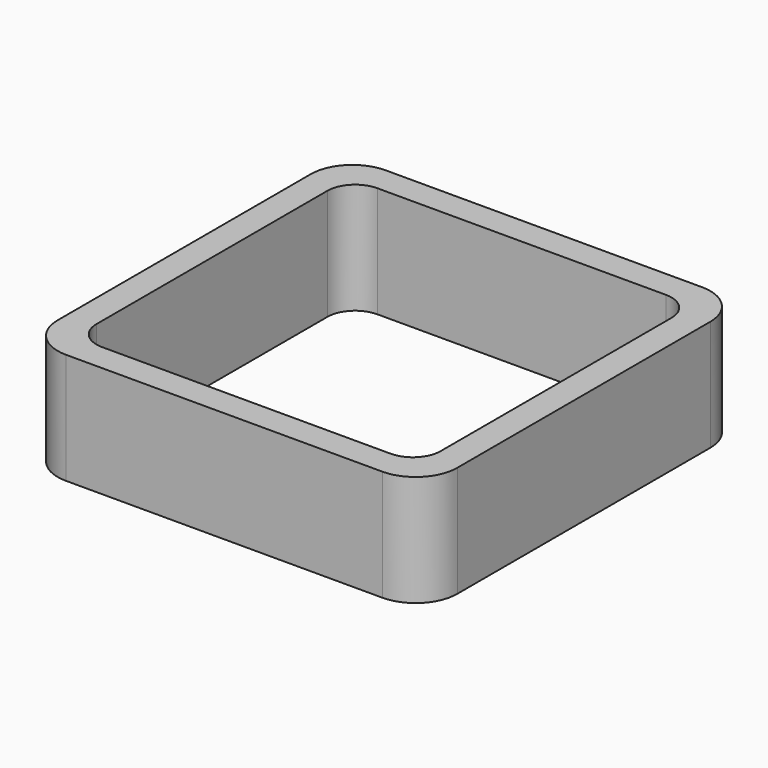
from build123d import *

# Parameters (mm, degrees)
EXTRUDE_DEPTH = 50


with BuildPart() as part:
    # Sketch → Extrude (new body)
    with BuildSketch(Plane.XY):
        with BuildLine():
            Line((-71.25, 90), (71.25, 90))
            ThreePointArc((90, 71.25), (84.508252, 84.508252), (71.25, 90))
            Line((90, 71.25), (90, -71.25))
            ThreePointArc((71.25, -90), (84.508252, -84.508252), (90, -71.25))
            Line((71.25, -90), (-71.25, -90))
            ThreePointArc((-90, -71.25), (-84.508252, -84.508252), (-71.25, -90))
            Line((-90, -71.25), (-90, 71.25))
            ThreePointArc((-71.25, 90), (-84.508252, 84.508252), (-90, 71.25))
        make_face()
        with BuildLine():
            Line((-65, 77.5), (65, 77.5))
            ThreePointArc((77.5, 65), (73.838835, 73.838835), (65, 77.5))
            Line((77.5, 65), (77.5, -65))
            ThreePointArc((65, -77.5), (73.838835, -73.838835), (77.5, -65))
            Line((65, -77.5), (-65, -77.5))
            ThreePointArc((-77.5, -65), (-73.838835, -73.838835), (-65, -77.5))
            Line((-77.5, -65), (-77.5, 65))
            ThreePointArc((-65, 77.5), (-73.838835, 73.838835), (-77.5, 65))
        make_face(mode=Mode.SUBTRACT)
    extrude(amount=EXTRUDE_DEPTH)


solid = part.part
